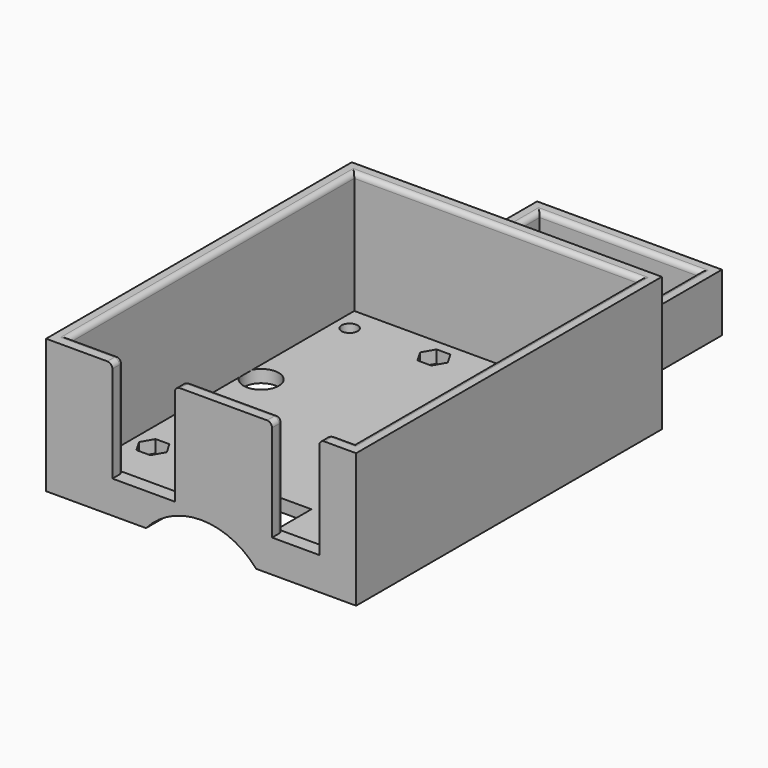
from build123d import *

# Parameters (mm, degrees)
SKETCH_R        = 1.6
PAD_DEPTH       = 26.7
SKETCH001_W     = 56.65
SKETCH001_H     = 70.73
SKETCH001_W_2   = 31.75
SKETCH001_H_2   = 28
POCKET_DEPTH    = 24.2
SKETCH002_W     = 36.75
SKETCH002_H     = 30.5
POCKET001_DEPTH = 15.2
SKETCH003_W     = 12.43
SKETCH003_H     = 2.95
SKETCH003_W_2   = 9.39
POCKET002_DEPTH = 20.2
SKETCH004_R     = 14.5
POCKET003_DEPTH = 17.25
SKETCH005_R     = 3.5
POCKET004_DEPTH = 2.5
FILLET_R        = 1
FILLET001_R     = 1


with BuildPart() as part:
    # Sketch → Pad (new body)
    with BuildSketch(Plane.XY):
        Polygon((-30.825, -68.49), (30.825, -68.49), (30.825, 7.49), (18.375, 7.49), (18.375, 37.99), (-18.375, 37.99), (-18.375, 7.49), (-30.825, 7.49), align=None)
        with Locations((-25.25, 0)):
            Circle(SKETCH_R, mode=Mode.SUBTRACT)
        with Locations((25.25, 0)):
            Circle(SKETCH_R, mode=Mode.SUBTRACT)
        Polygon((26.88, -51.57), (25.505, -49.18843), (22.755, -49.18843), (21.38, -51.57), (22.755, -53.95157), (25.505, -53.95157), align=None, mode=Mode.SUBTRACT)
        Polygon((-6.14, 0.5), (-7.515, 2.88157), (-10.265, 2.88157), (-11.64, 0.5), (-10.265, -1.88157), (-7.515, -1.88157), align=None, mode=Mode.SUBTRACT)
        Polygon((20.425, -1.88157), (21.8, 0.5), (20.425, 2.88157), (17.675, 2.88157), (16.3, 0.5), (17.675, -1.88157), align=None, mode=Mode.SUBTRACT)
        Polygon((-22.755, -52.68157), (-21.38, -50.3), (-22.755, -47.91843), (-25.505, -47.91843), (-26.88, -50.3), (-25.505, -52.68157), align=None, mode=Mode.SUBTRACT)
    extrude(amount=PAD_DEPTH)

    # Sketch001 (on Face36 of Pad) → Pocket (cut)
    with BuildSketch(Plane.XY.offset(26.7)):
        with Locations((0, -30.375)):
            Rectangle(SKETCH001_W, SKETCH001_H)
        with Locations((0, 21.49)):
            Rectangle(SKETCH001_W_2, SKETCH001_H_2)
    extrude(amount=-POCKET_DEPTH, mode=Mode.SUBTRACT)

    # Sketch002 (on Face5 of Pocket) → Pocket001 (cut)
    with BuildSketch(Plane.XY.offset(26.7)):
        with Locations((0, 22.74)):
            Rectangle(SKETCH002_W, SKETCH002_H)
    extrude(amount=-POCKET001_DEPTH, mode=Mode.SUBTRACT)

    # Sketch003 (on Face5 of Pocket001) → Pocket002 (cut)
    with BuildSketch(Plane.XY.offset(26.7)):
        with Locations((-11.43, -67.015)):
            Rectangle(SKETCH003_W, SKETCH003_H)
        with Locations((18.8, -67.015)):
            Rectangle(SKETCH003_W_2, SKETCH003_H)
    extrude(amount=-POCKET002_DEPTH, mode=Mode.SUBTRACT)

    # Sketch004 (on Face1 of Pocket002) → Pocket003 (cut)
    with BuildSketch(Plane.XZ.offset(68.49)):
        with Locations((0, -9.5)):
            Circle(SKETCH004_R)
    extrude(amount=-POCKET003_DEPTH, mode=Mode.SUBTRACT)

    # Sketch005 (on Face46 of Pocket003) → Pocket004 (cut)
    with BuildSketch(Plane.XY.offset(2.5)):
        with Locations((25.25, -22)):
            Circle(SKETCH005_R)
        with Locations((-25.25, -22)):
            Circle(SKETCH005_R)
    extrude(amount=-POCKET004_DEPTH, mode=Mode.SUBTRACT)

    # Fillet
    fillet_edges = [part.edges().sort_by_distance(p)[0] for p in [
        (15.875, 21.49, 11.5),
        (0, 35.49, 11.5),
        (-15.875, 21.49, 11.5),
        (-17.645, -67.115, 26.7),
        (-5.215, -67.115, 26.7),
        (14.105, -67.115, 26.7),
        (23.495, -67.115, 26.7),
    ]]
    fillet(fillet_edges, radius=FILLET_R)

    # Fillet001
    fillet001_edges = [part.edges().sort_by_distance(p)[0] for p in [
        (-28.325, -30.375, 26.7),
        (-23.485, -65.74, 26.7),
        (4.445, -65.74, 26.7),
        (28.325, -30.375, 26.7),
        (26.41, -65.74, 26.7),
        (0, 4.99, 26.7),
    ]]
    fillet(fillet001_edges, radius=FILLET001_R)


solid = part.part
